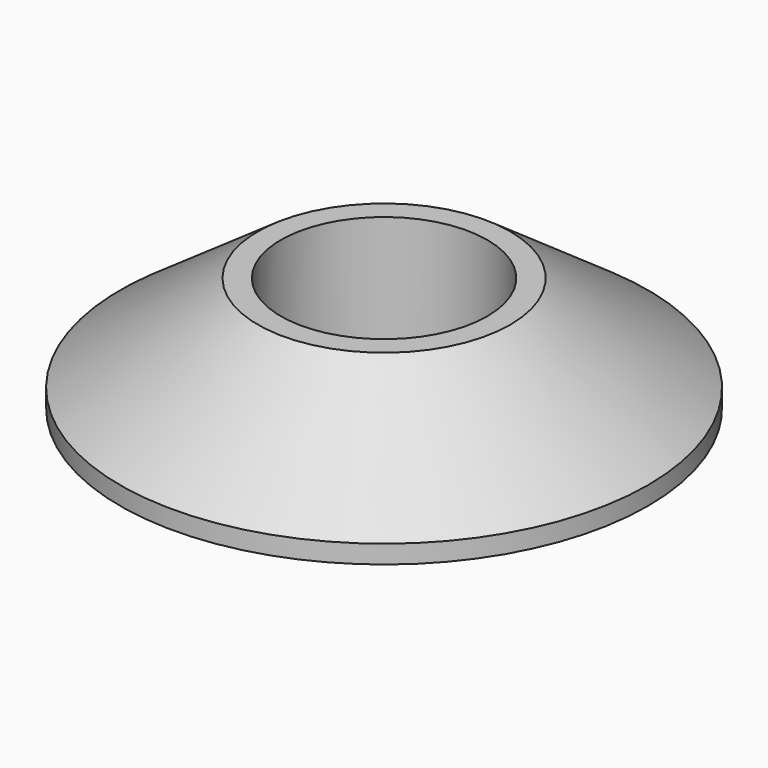
from build123d import *

# Parameters (mm, degrees)
F0_R     = 57.5
F0_R_2   = 25
F0_R_3   = 22.5
F1_DEPTH = 25
F2_SIZE2 = 21.0062261463
F2_SIZE  = 30


with BuildPart() as f1:
    # F0 (on Top) → F1 (new body)
    with BuildSketch(Plane.XY):
        Circle(F0_R)
        Circle(F0_R_2, mode=Mode.SUBTRACT)
        Circle(F0_R)
        Circle(F0_R_2, mode=Mode.SUBTRACT)
        Circle(F0_R_2)
        Circle(F0_R_3, mode=Mode.SUBTRACT)
    extrude(amount=F1_DEPTH)

    # F2
    f2_edges = [f1.edges().sort_by_distance(p)[0] for p in [
        (-57.5, 0, 25),
    ]]
    f2_side = f1.faces().sort_by_distance((-55.873654, 0, 25))[0]
    chamfer(f2_edges, length=F2_SIZE, length2=F2_SIZE2, reference=f2_side)


solid = f1.part
